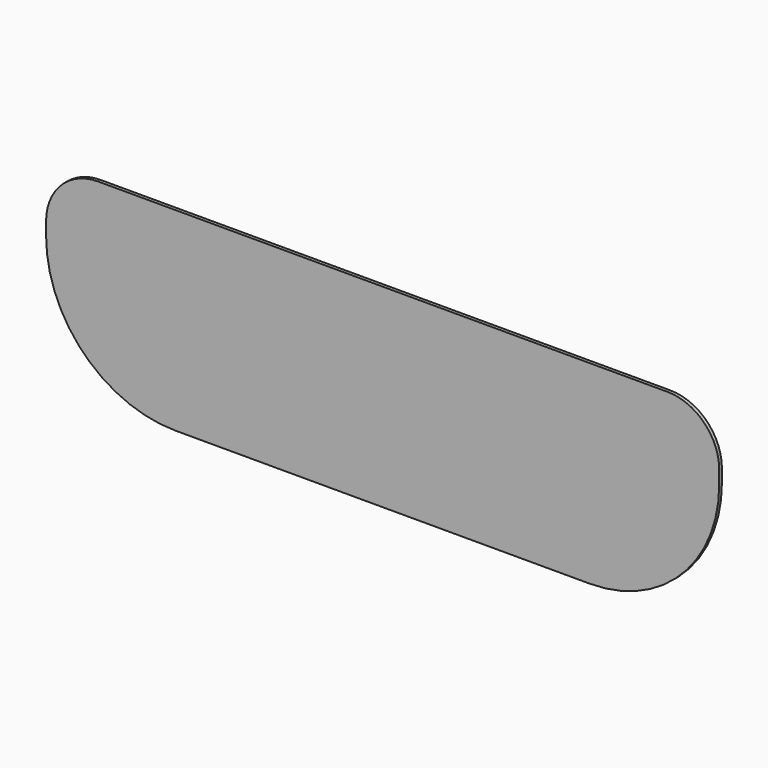
from build123d import *

# Parameters (mm, degrees)
F1_DEPTH = 0.8255


with BuildPart() as f1:
    # F0 (on Front) → F1 (new body, symmetric)
    with BuildSketch(Plane.XZ):
        with BuildLine():
            Line((139.699816, 47.62601), (0, 47.625))
            Line((0, 47.625), (0, -47.625))
            Line((0, -47.625), (101.6, -47.625))
            ThreePointArc((101.6, -47.625), (146.501281, -29.026281), (165.1, 15.875))
            Line((165.1, 15.875), (165.1, 22.22601))
            ThreePointArc((165.1, 22.22601), (157.660447, 40.186587), (139.699816, 47.62601))
        make_face()
    extrude(amount=F1_DEPTH, both=True)

    # F2: F1 across plane


with BuildPart() as f1_1:
    add(f1.part)
    add(f1.part.mirror(Plane.YZ))


solid = f1_1.part
